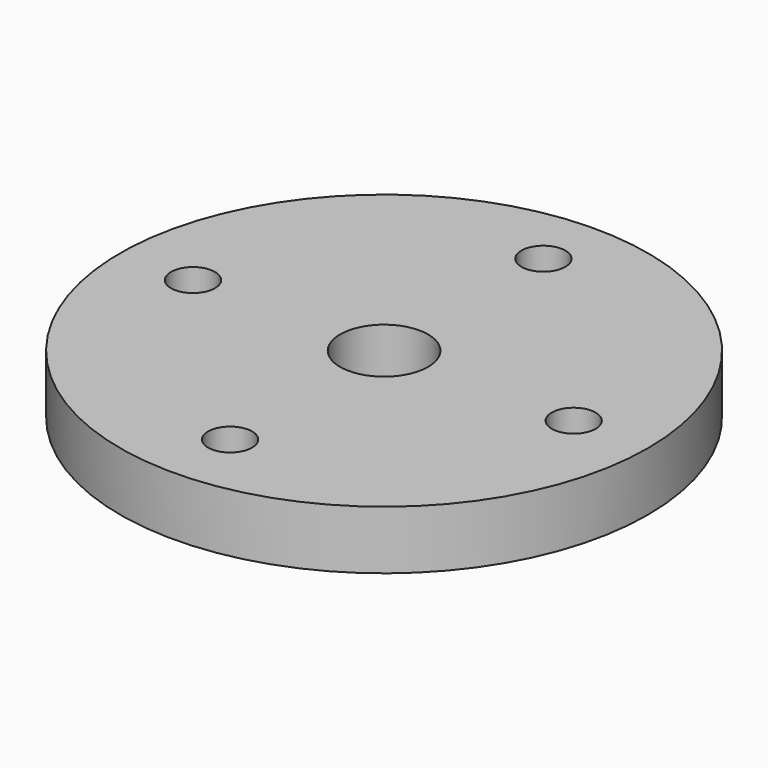
from build123d import *

# Parameters (mm, degrees)
F0_R     = 57.153655
F0_R_2   = 4.759266
F0_R_3   = 4.767274
F0_R_4   = 9.529019
F0_R_5   = 4.758407
F0_R_6   = 4.76816
F1_DEPTH = 12.7


with BuildPart() as f1:
    # F0 (on Top) → F1 (new body)
    with BuildSketch(Plane.XY):
        Circle(F0_R)
        with Locations((0, -41.678783)):
            Circle(F0_R_2, mode=Mode.SUBTRACT)
        with Locations((-41.378908, 0)):
            Circle(F0_R_3, mode=Mode.SUBTRACT)
        Circle(F0_R_4, mode=Mode.SUBTRACT)
        with Locations((41.055638, 0)):
            Circle(F0_R_5, mode=Mode.SUBTRACT)
        with Locations((0, 43.120254)):
            Circle(F0_R_6, mode=Mode.SUBTRACT)
    extrude(amount=F1_DEPTH)


solid = f1.part
